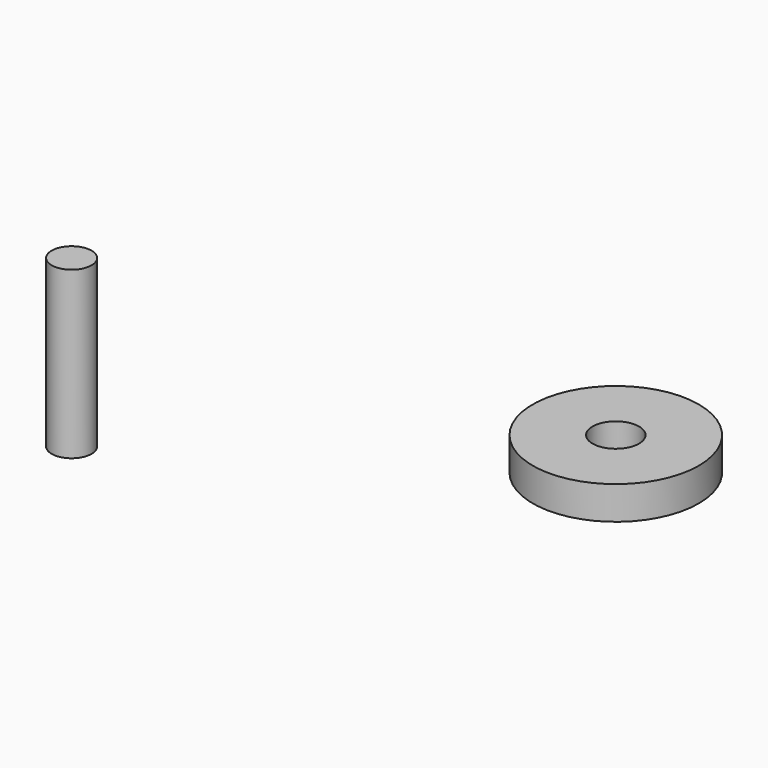
from build123d import *

# Parameters (mm, degrees)
F0_R     = 12.5
F1_DEPTH = 5
F3_D     = 7
F4_R     = 3
F5_DEPTH = 25


with BuildPart() as f1:
    # F0 (on Top) → F1 (new body)
    with BuildSketch(Plane.XY):
        Circle(F0_R)
    extrude(amount=F1_DEPTH)

    # F3 (through all)
    with Locations(Plane.XY.offset(5)):
        with Locations((0, 0)):
            Hole(F3_D / 2)


with BuildPart() as f5:
    # F4 (on Top) → F5 (new body)
    with BuildSketch(Plane.XY):
        with Locations((-54.136109, -34.759268)):
            Circle(F4_R)
    extrude(amount=F5_DEPTH)


solid = Compound([f1.part, f5.part])
